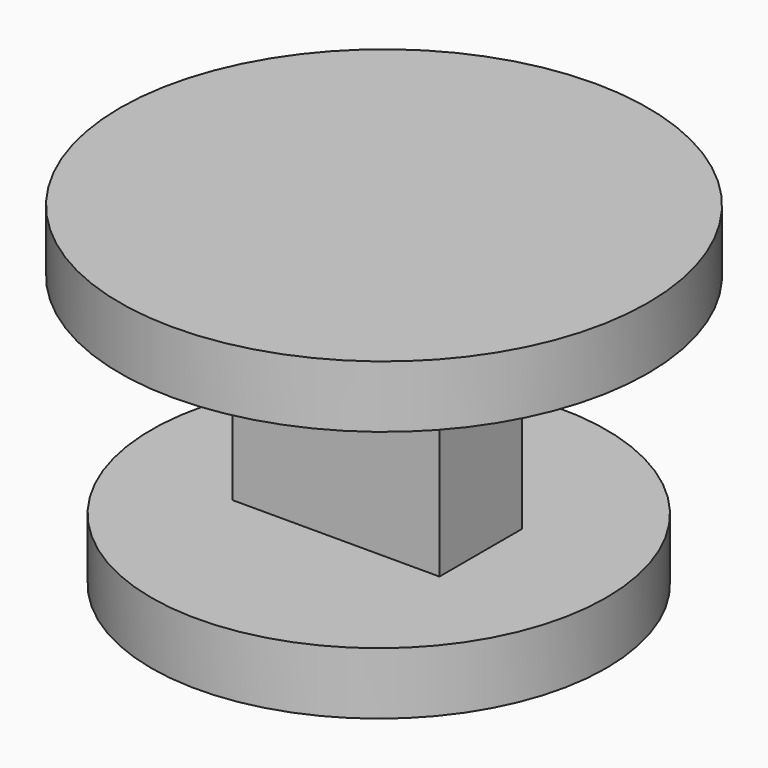
from build123d import *

# Parameters (mm, degrees)
F0_W      = 50
F0_H      = 50
F1_DEPTH  = 25
F2_R      = 63.827171
F3_DEPTH  = 15
F1_FACE_W = 50
F1_FACE_H = 25
F4_R      = 54.988955
F4_W      = 50
F4_H      = 25
F5_DEPTH  = 15


with BuildPart() as f1:
    # F0 (on Front) → F1 (new body)
    with BuildSketch(Plane.XZ):
        Rectangle(F0_W, F0_H)
        Rectangle(F0_W, F0_H)
    extrude(amount=F1_DEPTH)

    # F2 (on face) → F3 (join)
    with BuildSketch(Plane.XY.offset(25)):
        with Locations((0, -10.513827)):
            Circle(F2_R)
    extrude(amount=F3_DEPTH)

    # F1_face (on face) + F4 (on face) → F5 (join)
    with BuildSketch(Plane(origin=(0, -12.5, 25), x_dir=(1, 0, 0), z_dir=(0, 0, 1))):
        Rectangle(F1_FACE_W, F1_FACE_H)
    with BuildSketch(Plane(origin=(0, 0, -25), x_dir=(1, 0, 0), z_dir=(0, 0, -1))):
        with Locations((0, 12.09332)):
            Circle(F4_R)
        with Locations((0, 12.5)):
            Rectangle(F4_W, F4_H, mode=Mode.SUBTRACT)
        with Locations((0, 12.5)):
            Rectangle(F4_W, F4_H)
    extrude(amount=F5_DEPTH)


solid = f1.part
